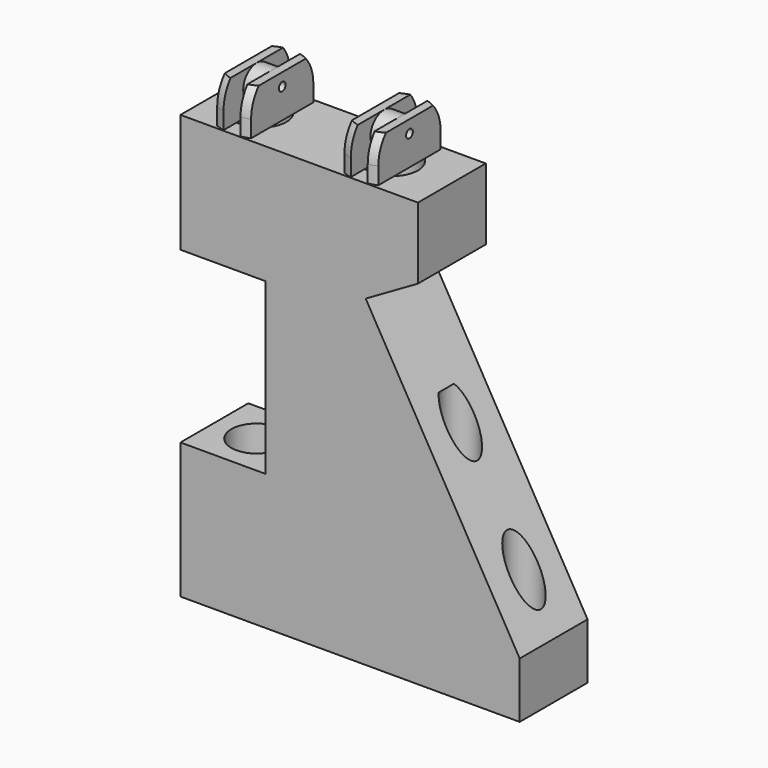
from build123d import *

# Parameters (mm, degrees)
CYLINDER193_R          = 3
CYLINDER193_DEPTH      = 43
CYLINDER182_R          = 2
CYLINDER182_DEPTH      = 30
CYLINDER188_R          = 2
CYLINDER188_DEPTH      = 30
CYLINDER190_R          = 2
CYLINDER190_DEPTH      = 50
CYLINDER191_R          = 2
CYLINDER191_DEPTH      = 15
CYLINDER192_R          = 3
CYLINDER192_DEPTH      = 5
CYLINDER189_R          = 3
CYLINDER189_DEPTH      = 5
CYLINDER183_R          = 0.5
CYLINDER183_DEPTH      = 10
CYLINDER185_R          = 2
CYLINDER185_DEPTH      = 4
CYLINDER187_R          = 3
CYLINDER187_DEPTH      = 10
BOX082_W               = 10
BOX082_H               = 10
BOX082_DEPTH           = 10
BOX080_W               = 2
BOX080_H               = 10
BOX080_DEPTH           = 10
BOX081_W               = 10
BOX081_H               = 10
BOX081_DEPTH           = 10
CYLINDER184_R          = 5
CYLINDER184_DEPTH      = 10
CYLINDER186_R          = 5
CYLINDER186_DEPTH      = 10
CYLINDER181_R          = 0.5
CYLINDER181_DEPTH      = 10
CYLINDER180_R          = 2
CYLINDER180_DEPTH      = 4
CYLINDER178_R          = 3
CYLINDER178_DEPTH      = 10
BOX076_W               = 10
BOX076_H               = 10
BOX076_DEPTH           = 10
BOX074_W               = 2
BOX074_H               = 10
BOX074_DEPTH           = 10
BOX073_W               = 10
BOX073_H               = 10
BOX073_DEPTH           = 10
CYLINDER179_R          = 5
CYLINDER179_DEPTH      = 10
CYLINDER177_R          = 5
CYLINDER177_DEPTH      = 10
BOX075_W               = 10
BOX075_H               = 10
BOX075_DEPTH           = 20
BOX078_W               = 10
BOX078_H               = 10
BOX078_DEPTH           = 20
BOX079_W               = 40
BOX079_H               = 10
BOX079_DEPTH           = 50
BOX079_PLACEMENT_ANGLE = 30
BOX077_W               = 40
BOX077_H               = 10
BOX077_DEPTH           = 50


with BuildPart() as cylinder193:
    # Cylinder193 → Cylinder193 (new body)
    with BuildSketch(Plane(origin=(-93, 0, -100.5), x_dir=(1, 0, 0), z_dir=(0, 0, 1))):
        Circle(CYLINDER193_R)
    extrude(amount=CYLINDER193_DEPTH)


with BuildPart() as cylinder182:
    # Cylinder182 → Cylinder182 (new body)
    with BuildSketch(Plane(origin=(-61.5, 0, -136), x_dir=(1, 0, 0), z_dir=(0, 0, 1))):
        Circle(CYLINDER182_R)
    extrude(amount=CYLINDER182_DEPTH)


with BuildPart() as cylinder188:
    # Cylinder188 → Cylinder188 (new body)
    with BuildSketch(Plane(origin=(-69, 0, -136), x_dir=(1, 0, 0), z_dir=(0, 0, 1))):
        Circle(CYLINDER188_R)
    extrude(amount=CYLINDER188_DEPTH)


with BuildPart() as cylinder190:
    # Cylinder190 → Cylinder190 (new body)
    with BuildSketch(Plane(origin=(-81, 0, -143.5), x_dir=(1, 0, 0), z_dir=(0, 0, 1))):
        Circle(CYLINDER190_R)
    extrude(amount=CYLINDER190_DEPTH)


with BuildPart() as cylinder191:
    # Cylinder191 → Cylinder191 (new body)
    with BuildSketch(Plane(origin=(-92, 0, -91), x_dir=(0, 0, -1), z_dir=(1, 0, 0))):
        Circle(CYLINDER191_R)
    extrude(amount=CYLINDER191_DEPTH)


with BuildPart() as cylinder192:
    # Cylinder192 → Cylinder192 (new body)
    with BuildSketch(Plane(origin=(-77, 0, -89.5), x_dir=(1, 0, 0), z_dir=(0, 0, 1))):
        Circle(CYLINDER192_R)
    extrude(amount=CYLINDER192_DEPTH)


with BuildPart() as cylinder189:
    # Cylinder189 → Cylinder189 (new body)
    with BuildSketch(Plane(origin=(-92.5, 0, -89.5), x_dir=(1, 0, 0), z_dir=(0, 0, 1))):
        Circle(CYLINDER189_R)
    extrude(amount=CYLINDER189_DEPTH)


with BuildPart() as cylinder183:
    # Cylinder183 → Cylinder183 (new body)
    with BuildSketch(Plane(origin=(-5, 0, -7), x_dir=(0, 0, -1), z_dir=(1, 0, 0))):
        Circle(CYLINDER183_R)
    extrude(amount=CYLINDER183_DEPTH)


with BuildPart() as cylinder185:
    # Cylinder185 → Cylinder185 (new body)
    with BuildSketch(Plane(origin=(-2, -50, 1), x_dir=(0, 0, -1), z_dir=(1, 0, 0))):
        Circle(CYLINDER185_R)
    extrude(amount=CYLINDER185_DEPTH)


with BuildPart() as cylinder187:
    # Cylinder187 → Cylinder187 (new body)
    with BuildSketch(Plane(origin=(0, -50, -12), x_dir=(1, 0, 0), z_dir=(0, 0, 1))):
        Circle(CYLINDER187_R)
    extrude(amount=CYLINDER187_DEPTH)


with BuildPart() as cube082:
    # Box082 → Box082 (new body)
    with BuildSketch(Plane(origin=(-12, -55, -2), x_dir=(1, 0, 0), z_dir=(0, 0, 1))):
        with Locations((5, 5)):
            Rectangle(BOX082_W, BOX082_H)
    extrude(amount=BOX082_DEPTH)


with BuildPart() as cube080:
    # Box080 → Box080 (new body)
    with BuildSketch(Plane(origin=(-1, -55, -2), x_dir=(1, 0, 0), z_dir=(0, 0, 1))):
        with Locations((1, 5)):
            Rectangle(BOX080_W, BOX080_H)
    extrude(amount=BOX080_DEPTH)


with BuildPart() as cube081:
    # Box081 → Box081 (new body)
    with BuildSketch(Plane(origin=(2, -55, -2), x_dir=(1, 0, 0), z_dir=(0, 0, 1))):
        with Locations((5, 5)):
            Rectangle(BOX081_W, BOX081_H)
    extrude(amount=BOX081_DEPTH)


with BuildPart() as cylinder184:
    # Cylinder184 → Cylinder184 (new body)
    with BuildSketch(Plane(origin=(0, -50, -10), x_dir=(1, 0, 0), z_dir=(0, 0, 1))):
        Circle(CYLINDER184_R)
    extrude(amount=CYLINDER184_DEPTH)


with BuildPart() as sphere041:
    # Sphere041 → Sphere041 (revolve)
    with BuildSketch(Plane.XZ.offset(50)):
        with BuildLine():
            ThreePointArc((5, 0), (3.535534, 3.535534), (0, 5))
            Line((0, 5), (0, 0))
            Line((0, 0), (5, 0))
        make_face()
    revolve(axis=Axis((0, -50, 0), (0, 0, 1)))


with BuildPart() as cut173:
    # Cylinder186 → Cylinder186 (new body)
    with BuildSketch(Plane(origin=(0, -50, -7), x_dir=(1, 0, 0), z_dir=(0, 0, 1))):
        Circle(CYLINDER186_R)
    extrude(amount=CYLINDER186_DEPTH)

    # Common034: intersect Sphere041
    add(sphere041.part, mode=Mode.INTERSECT)

    # Fusion005077006: union Cylinder184
    add(cylinder184.part)

    # Cut172: cut Cube081
    add(cube081.part, mode=Mode.SUBTRACT)

    # Cut174: cut Cube080
    add(cube080.part, mode=Mode.SUBTRACT)

    # Cut175: cut Cube082
    add(cube082.part, mode=Mode.SUBTRACT)

    # Cut176: cut Cylinder187
    add(cylinder187.part, mode=Mode.SUBTRACT)

    # Fusion005077007: union Cylinder185
    add(cylinder185.part)


with BuildPart() as cut173_1:
    # Fusion005077005 placement: moved
    add(cut173.part.moved(Location((0, 50, -8.5))))

    # Cut173: cut Cylinder183
    add(cylinder183.part, mode=Mode.SUBTRACT)


with BuildPart() as cut173_2:
    # Cut173 placement: moved
    add(cut173_1.part.moved(Location((-77, 0, -74))))


with BuildPart() as cylinder181:
    # Cylinder181 → Cylinder181 (new body)
    with BuildSketch(Plane(origin=(-5, 0, -7), x_dir=(0, 0, -1), z_dir=(1, 0, 0))):
        Circle(CYLINDER181_R)
    extrude(amount=CYLINDER181_DEPTH)


with BuildPart() as cylinder180:
    # Cylinder180 → Cylinder180 (new body)
    with BuildSketch(Plane(origin=(-2, -50, 1), x_dir=(0, 0, -1), z_dir=(1, 0, 0))):
        Circle(CYLINDER180_R)
    extrude(amount=CYLINDER180_DEPTH)


with BuildPart() as cylinder178:
    # Cylinder178 → Cylinder178 (new body)
    with BuildSketch(Plane(origin=(0, -50, -12), x_dir=(1, 0, 0), z_dir=(0, 0, 1))):
        Circle(CYLINDER178_R)
    extrude(amount=CYLINDER178_DEPTH)


with BuildPart() as cube076:
    # Box076 → Box076 (new body)
    with BuildSketch(Plane(origin=(-12, -55, -2), x_dir=(1, 0, 0), z_dir=(0, 0, 1))):
        with Locations((5, 5)):
            Rectangle(BOX076_W, BOX076_H)
    extrude(amount=BOX076_DEPTH)


with BuildPart() as cube074:
    # Box074 → Box074 (new body)
    with BuildSketch(Plane(origin=(-1, -55, -2), x_dir=(1, 0, 0), z_dir=(0, 0, 1))):
        with Locations((1, 5)):
            Rectangle(BOX074_W, BOX074_H)
    extrude(amount=BOX074_DEPTH)


with BuildPart() as cube073:
    # Box073 → Box073 (new body)
    with BuildSketch(Plane(origin=(2, -55, -2), x_dir=(1, 0, 0), z_dir=(0, 0, 1))):
        with Locations((5, 5)):
            Rectangle(BOX073_W, BOX073_H)
    extrude(amount=BOX073_DEPTH)


with BuildPart() as cylinder179:
    # Cylinder179 → Cylinder179 (new body)
    with BuildSketch(Plane(origin=(0, -50, -10), x_dir=(1, 0, 0), z_dir=(0, 0, 1))):
        Circle(CYLINDER179_R)
    extrude(amount=CYLINDER179_DEPTH)


with BuildPart() as sphere040:
    # Sphere040 → Sphere040 (revolve)
    with BuildSketch(Plane.XZ.offset(50)):
        with BuildLine():
            ThreePointArc((5, 0), (3.535534, 3.535534), (0, 5))
            Line((0, 5), (0, 0))
            Line((0, 0), (5, 0))
        make_face()
    revolve(axis=Axis((0, -50, 0), (0, 0, 1)))


with BuildPart() as cut166:
    # Cylinder177 → Cylinder177 (new body)
    with BuildSketch(Plane(origin=(0, -50, -7), x_dir=(1, 0, 0), z_dir=(0, 0, 1))):
        Circle(CYLINDER177_R)
    extrude(amount=CYLINDER177_DEPTH)

    # Common033: intersect Sphere040
    add(sphere040.part, mode=Mode.INTERSECT)

    # Fusion005077003: union Cylinder179
    add(cylinder179.part)

    # Cut169: cut Cube073
    add(cube073.part, mode=Mode.SUBTRACT)

    # Cut167: cut Cube074
    add(cube074.part, mode=Mode.SUBTRACT)

    # Cut163: cut Cube076
    add(cube076.part, mode=Mode.SUBTRACT)

    # Cut164: cut Cylinder178
    add(cylinder178.part, mode=Mode.SUBTRACT)

    # Fusion005077002: union Cylinder180
    add(cylinder180.part)


with BuildPart() as cut166_1:
    # Fusion005077004 placement: moved
    add(cut166.part.moved(Location((0, 50, -8.5))))

    # Cut166: cut Cylinder181
    add(cylinder181.part, mode=Mode.SUBTRACT)


with BuildPart() as cut166_2:
    # Cut166 placement: moved
    add(cut166_1.part.moved(Location((-92, 0, -74))))


with BuildPart() as cube075:
    # Box075 → Box075 (new body)
    with BuildSketch(Plane(origin=(-70, -5, -83.5), x_dir=(0, 0, -1), z_dir=(1, 0, 0))):
        with Locations((5, 5)):
            Rectangle(BOX075_W, BOX075_H)
    extrude(amount=BOX075_DEPTH)


with BuildPart() as cube078:
    # Box078 → Box078 (new body)
    with BuildSketch(Plane(origin=(-98, -5, -118.5), x_dir=(1, 0, 0), z_dir=(0, 0, 1))):
        with Locations((5, 5)):
            Rectangle(BOX078_W, BOX078_H)
    extrude(amount=BOX078_DEPTH)


with BuildPart() as cube079:
    # Box079 → Box079 (new body)
    with BuildSketch(Plane.XY):
        with Locations((20, 5)):
            Rectangle(BOX079_W, BOX079_H)
    extrude(amount=BOX079_DEPTH)


with BuildPart() as cube079_1:
    # Box079 placement: moved
    add(cube079.part.moved(Location((-51.158872, -5, -139.76751))).rotate(Axis((-51.158872, -5, -139.76751), (0, -1, 0)), BOX079_PLACEMENT_ANGLE))


with BuildPart() as cut182:
    # Box077 → Box077 (new body)
    with BuildSketch(Plane(origin=(-98, -5, -134.5), x_dir=(1, 0, 0), z_dir=(0, 0, 1))):
        with Locations((20, 5)):
            Rectangle(BOX077_W, BOX077_H)
    extrude(amount=BOX077_DEPTH)

    # Cut165: cut Cube079
    add(cube079_1.part, mode=Mode.SUBTRACT)

    # Cut170: cut Cube078
    add(cube078.part, mode=Mode.SUBTRACT)

    # Cut168: cut Cube075
    add(cube075.part, mode=Mode.SUBTRACT)

    # Fusion005077008: union Cut166
    add(cut166_2.part)

    # Fusion005077010: union Cut173
    add(cut173_2.part)

    # Cut178: cut Cylinder189
    add(cylinder189.part, mode=Mode.SUBTRACT)

    # Cut179: cut Cylinder192
    add(cylinder192.part, mode=Mode.SUBTRACT)

    # Cut177: cut Cylinder191
    add(cylinder191.part, mode=Mode.SUBTRACT)

    # Cut181: cut Cylinder190
    add(cylinder190.part, mode=Mode.SUBTRACT)

    # Cut180: cut Cylinder188
    add(cylinder188.part, mode=Mode.SUBTRACT)

    # Cut171: cut Cylinder182
    add(cylinder182.part, mode=Mode.SUBTRACT)


with BuildPart() as cut182_1:
    # Cut171 placement: moved
    add(cut182.part.moved(Location((0, 0, 37))))

    # Cut182: cut Cylinder193
    add(cylinder193.part, mode=Mode.SUBTRACT)


with BuildPart() as cut182_2:
    # Cut182 placement: moved
    add(cut182_1.part.moved(Location((132, 0, 0))))


solid = cut182_2.part
